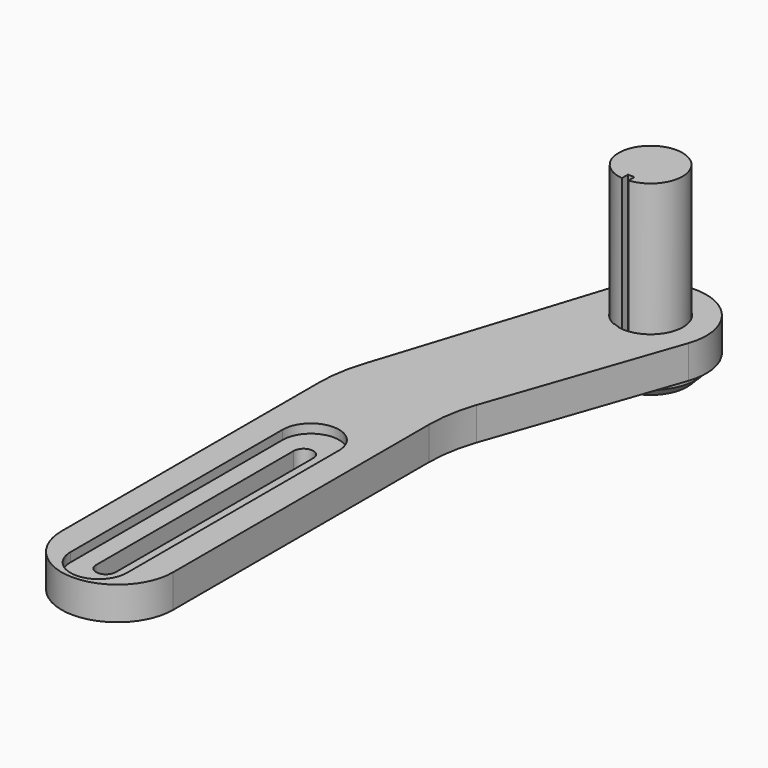
from build123d import *

# Parameters (mm, degrees)
F0_R      = 10.75
F1_DEPTH  = 8
F3_DEPTH  = 2.5
F5_DEPTH  = 25
F6_R      = 10.75
F7_DEPTH  = 3
F9_DEPTH  = 7
F10_R     = 50
F11_R     = 10.6
F12_DEPTH = 55
F13_R     = 15.154326
F14_DEPTH = 6
F15_SIZE  = 3
F17_DEPTH = 55


with BuildPart() as f1:
    # F0 (on Top) → F1 (new body)
    with BuildSketch(Plane.XY):
        with BuildLine():
            Line((0, 114.4941), (0, 0))
            ThreePointArc((0, 0), (18.5, -18.5), (37, 0))
            Line((37, 0), (37, 114.4941))
            Line((37, 114.4941), (60.986879, 183.961866))
            ThreePointArc((60.986879, 183.961866), (49.330178, 207.557307), (25.874738, 195.6214))
            Line((25.874738, 195.6214), (0, 114.4941))
        make_face()
        with Locations((43.5, 190)):
            Circle(F0_R, mode=Mode.SUBTRACT)
    extrude(amount=F1_DEPTH)

    # F2 (on face) → F3 (join)
    with BuildSketch(Plane(origin=(0, 0, 0), x_dir=(1, 0, 0), z_dir=(0, 0, -1))):
        with BuildLine():
            ThreePointArc((29.3, 0), (18.5, 10.8), (7.7, 0))
            Line((7.7, 0), (7.7, -72.5))
            ThreePointArc((7.7, -72.5), (18.5, -83.3), (29.3, -72.5))
            Line((29.3, -72.5), (29.3, 0))
        make_face()
    extrude(amount=F3_DEPTH)

    # F4 (on face) → F5 (cut)
    with BuildSketch(Plane(origin=(0, 0, -2.5), x_dir=(1, 0, 0), z_dir=(0, 0, -1))):
        with BuildLine():
            ThreePointArc((21.75, 4.75), (18.5, 8), (15.25, 4.75))
            Line((15.25, 4.75), (15.25, -77.25))
            ThreePointArc((15.25, -77.25), (18.5, -80.5), (21.75, -77.25))
            Line((21.75, -77.25), (21.75, 4.75))
        make_face()
    extrude(amount=-F5_DEPTH, mode=Mode.SUBTRACT)

    # F6 (on face) → F7 (join)
    with BuildSketch(Plane.XY.offset(8)):
        with BuildLine():
            Line((25.874738, 195.6214), (0, 114.4941))
            Line((0, 114.4941), (0, 0))
            ThreePointArc((0, 0), (18.5, -18.5), (37, 0))
            Line((37, 0), (37, 114.4941))
            Line((37, 114.4941), (60.986879, 183.961866))
            ThreePointArc((60.986879, 183.961866), (49.330178, 207.557307), (25.874738, 195.6214))
        make_face()
        with BuildLine():
            Line((9.15, -7.750917), (9.15, 80.283705))
            ThreePointArc((9.15, 80.283705), (18.5, 89.633705), (27.85, 80.283705))
            Line((27.85, 80.283705), (27.85, -7.750917))
            ThreePointArc((27.85, -7.750917), (18.5, -17.100917), (9.15, -7.750917))
        make_face(mode=Mode.SUBTRACT)
        with Locations((43.5, 190)):
            Circle(F6_R, mode=Mode.SUBTRACT)
    extrude(amount=F7_DEPTH)

    # F8 (on face) → F9 (join)
    with BuildSketch(Plane.XY.offset(11)):
        with BuildLine():
            Line((39.714103, 182.099624), (39.061332, 180.209151))
            ThreePointArc((39.061332, 180.209151), (39.991329, 179.838631), (40.951805, 179.55638))
            Line((40.951805, 179.55638), (41.604576, 181.446853))
            Line((41.604576, 181.446853), (39.714103, 182.099624))
        make_face()
        with BuildLine():
            Line((39.714103, 182.099624), (39.061332, 180.209151))
            ThreePointArc((39.061332, 180.209151), (39.991329, 179.838631), (40.951805, 179.55638))
            Line((40.951805, 179.55638), (41.604576, 181.446853))
            Line((41.604576, 181.446853), (39.714103, 182.099624))
        make_face()
    extrude(amount=-F9_DEPTH)

    # F10
    f10_edges = [f1.edges().sort_by_distance(p)[0] for p in [
        (0, 114.4941, 5.5),
        (37, 114.4941, 5.5),
    ]]
    fillet(f10_edges, radius=F10_R)


with BuildPart() as f12:
    # F11 (on face) → F12 (new body)
    with BuildSketch(Plane(origin=(0, 0, 0), x_dir=(1, 0, 0), z_dir=(0, 0, -1))):
        with Locations((43.5, -190)):
            Circle(F11_R)
    extrude(amount=-F12_DEPTH)

    # F16 (on face) → F17 (cut)
    with BuildSketch(Plane.XY.offset(55)):
        with BuildLine():
            Line((44.6, 181.95723), (42.4, 181.95723))
            Line((42.4, 181.95723), (42.4, 179.45723))
            ThreePointArc((42.4, 179.45723), (43.5, 179.4), (44.6, 179.45723))
            Line((44.6, 179.45723), (44.6, 181.95723))
        make_face()
    extrude(amount=-F17_DEPTH, mode=Mode.SUBTRACT)


with BuildPart() as f14:
    # F13 (on face) → F14 (new body)
    with BuildSketch(Plane(origin=(0, 0, 0), x_dir=(1, 0, 0), z_dir=(0, 0, -1))):
        with Locations((43.5, -190)):
            Circle(F13_R)
    extrude(amount=F14_DEPTH)

    # F15
    f15_edges = [f14.edges().sort_by_distance(p)[0] for p in [
        (28.345674, 190, -6),
    ]]
    chamfer(f15_edges, length=F15_SIZE)


solid = Compound([f1.part, f12.part, f14.part])
